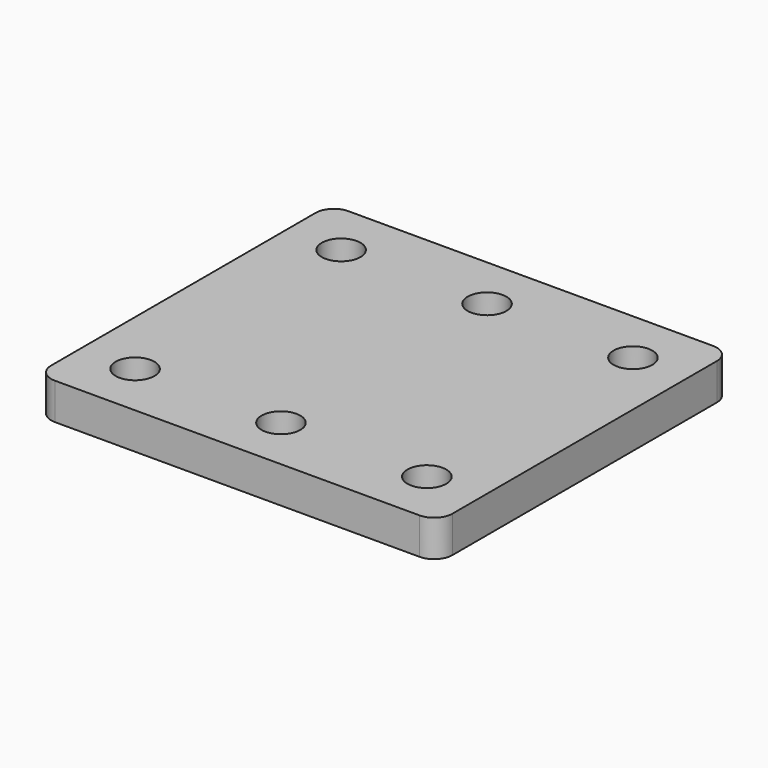
from build123d import *

# Parameters (mm, degrees)
F1_R     = 6.746875
F2_DEPTH = 12.7


with BuildPart() as f2:
    # F1 (on offset) → F2 (new body)
    with BuildSketch(Plane.XY.offset(25.4)):
        with BuildLine():
            Line((63.5, 63.896875), (-63.5, 63.896875))
            ThreePointArc((-63.5, 63.896875), (-67.990128, 62.037003), (-69.85, 57.546875))
            Line((-69.85, 57.546875), (-69.85, -57.546875))
            ThreePointArc((-69.85, -57.546875), (-67.990128, -62.037003), (-63.5, -63.896875))
            Line((-63.5, -63.896875), (63.5, -63.896875))
            ThreePointArc((63.5, -63.896875), (67.990128, -62.037003), (69.85, -57.546875))
            Line((69.85, -57.546875), (69.85, 57.546875))
            ThreePointArc((69.85, 57.546875), (67.990128, 62.037003), (63.5, 63.896875))
        make_face()
        with Locations((-50.8, -44.846875)):
            Circle(F1_R, mode=Mode.SUBTRACT)
        with Locations((0, -44.846875)):
            Circle(F1_R, mode=Mode.SUBTRACT)
        with Locations((50.8, -44.846875)):
            Circle(F1_R, mode=Mode.SUBTRACT)
        with Locations((-50.8, 44.846875)):
            Circle(F1_R, mode=Mode.SUBTRACT)
        with Locations((0, 44.846875)):
            Circle(F1_R, mode=Mode.SUBTRACT)
        with Locations((50.8, 44.846875)):
            Circle(F1_R, mode=Mode.SUBTRACT)
    extrude(amount=F2_DEPTH)


solid = f2.part
